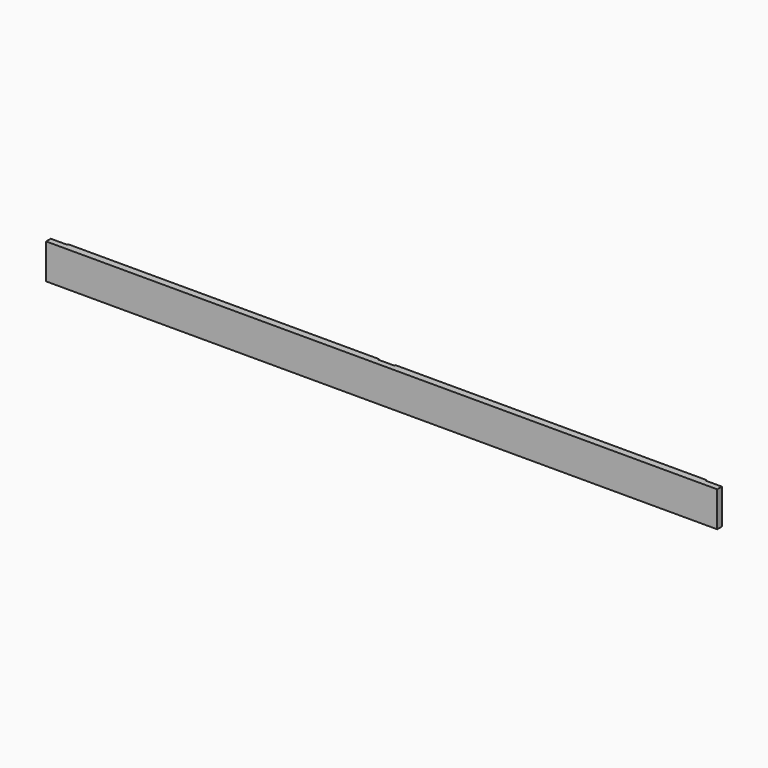
from build123d import *

# Parameters (mm, degrees)
F0_W     = 3632.2
F0_H     = 190.5
F1_DEPTH = 19.05
F2_W     = 88.9
F2_H     = 190.5
F3_DEPTH = 6.35


with BuildPart() as f1:
    # F0 (on Front) → F1 (new body, symmetric)
    with BuildSketch(Plane.XZ):
        Rectangle(F0_W, F0_H)
    extrude(amount=F1_DEPTH, both=True)

    # F2 (on face) → F3 (cut)
    with BuildSketch(Plane(origin=(0, 19.05, 0), x_dir=(-1, 0, 0), z_dir=(0, 1, 0))):
        with Locations((-1771.65, 0)):
            Rectangle(F2_W, F2_H)
        Rectangle(F2_W, F2_H)
        with Locations((1771.65, 0)):
            Rectangle(F2_W, F2_H)
    extrude(amount=-F3_DEPTH, mode=Mode.SUBTRACT)


solid = f1.part
